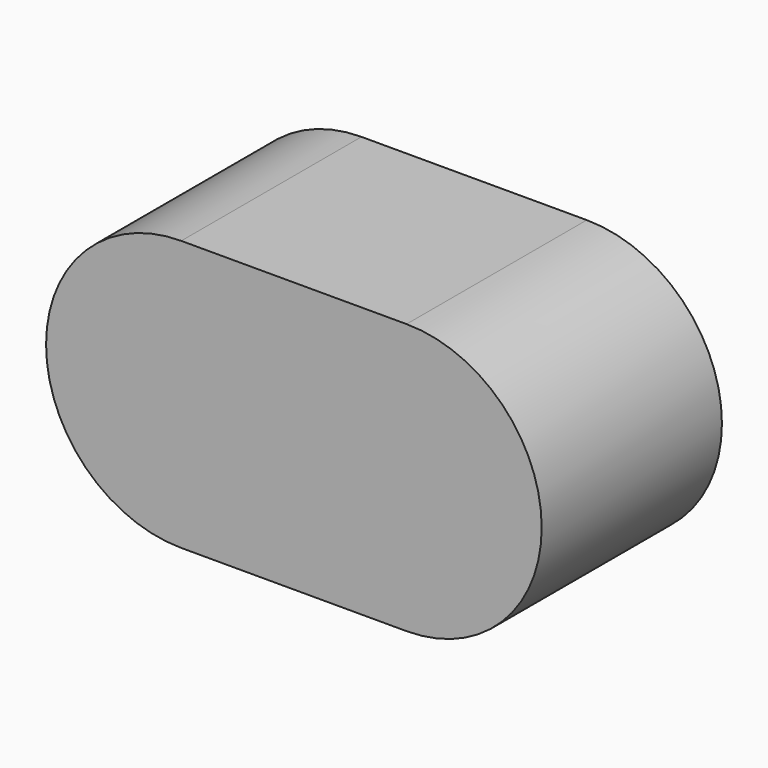
from build123d import *

# Parameters (mm, degrees)
F0_W     = 5
F0_H     = 6
F1_DEPTH = 5


with BuildPart() as f1:
    # F0 (on Front) → F1 (new body)
    with BuildSketch(Plane.XZ):
        Rectangle(F0_W, F0_H)
        with BuildLine():
            ThreePointArc((2.5, -3), (5.5, 0), (2.5, 3))
            Line((2.5, 3), (2.5, -3))
        make_face()
        with BuildLine():
            Line((-2.5, -3), (-2.5, 3))
            ThreePointArc((-2.5, 3), (-5.5, 0), (-2.5, -3))
        make_face()
    extrude(amount=F1_DEPTH)


solid = f1.part
